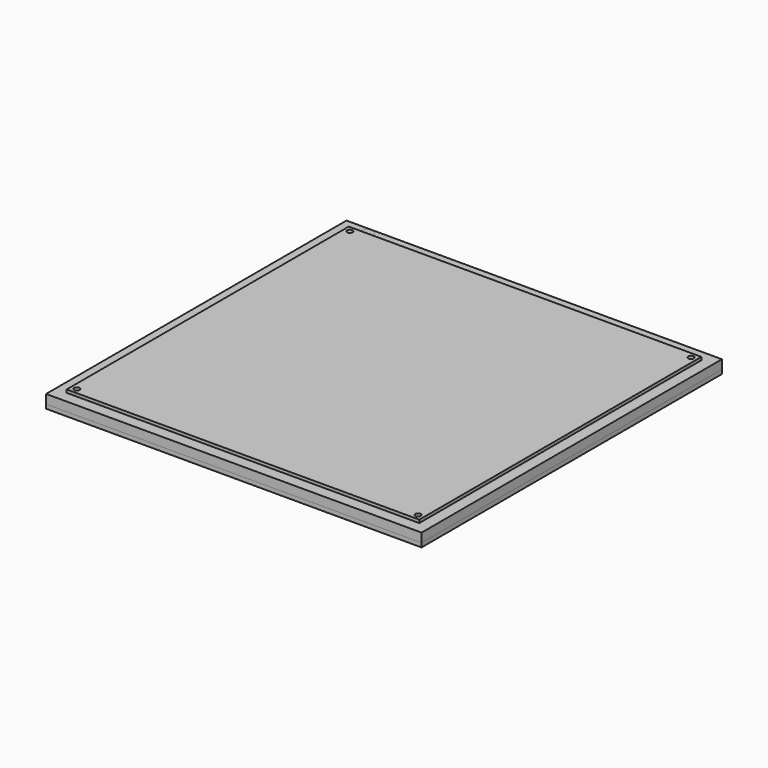
from build123d import *

# Parameters (mm, degrees)
F0_W           = 216
F0_H           = 216
F0_R           = 1.7
F1_DEPTH       = 1.86
F2_W           = 230
F2_H           = 230
F2_R           = 1.7
F3_DEPTH       = 8
F4_W           = 230
F4_H           = 230
F4_R           = 1.7
F5_DEPTH       = 5.5
F6_D           = 4.1656
F6_CSINK_D     = 7.9248
F6_CSINK_ANGLE = 82


with BuildPart() as f1:
    # F0 (on Top) → F1 (new body)
    with BuildSketch(Plane.XY):
        Rectangle(F0_W, F0_H)
        with Locations((-104.5, -104.5)):
            Circle(F0_R, mode=Mode.SUBTRACT)
        with Locations((104.5, -104.5)):
            Circle(F0_R, mode=Mode.SUBTRACT)
        with Locations((-104.5, 104.5)):
            Circle(F0_R, mode=Mode.SUBTRACT)
        with Locations((104.5, 104.5)):
            Circle(F0_R, mode=Mode.SUBTRACT)
    extrude(amount=F1_DEPTH)


with BuildPart() as f3:
    # F2 (on Top) → F3 (new body)
    with BuildSketch(Plane.XY):
        Rectangle(F2_W, F2_H)
        with Locations((-104.5, -104.5)):
            Circle(F2_R, mode=Mode.SUBTRACT)
        with Locations((104.5, -104.5)):
            Circle(F2_R, mode=Mode.SUBTRACT)
        with Locations((-104.5, 104.5)):
            Circle(F2_R, mode=Mode.SUBTRACT)
        with Locations((104.5, 104.5)):
            Circle(F2_R, mode=Mode.SUBTRACT)
    extrude(amount=-F3_DEPTH)


with BuildPart() as f5:
    # F4 (on face) → F5 (new body)
    with BuildSketch(Plane.XY):
        Rectangle(F4_W, F4_H)
        with Locations((-104.5, -104.5)):
            Circle(F4_R, mode=Mode.SUBTRACT)
        with Locations((104.5, -104.5)):
            Circle(F4_R, mode=Mode.SUBTRACT)
        with Locations((-104.5, 104.5)):
            Circle(F4_R, mode=Mode.SUBTRACT)
        with Locations((104.5, 104.5)):
            Circle(F4_R, mode=Mode.SUBTRACT)
    extrude(amount=-F5_DEPTH)

    # F6 (through all)
    with Locations(Plane.XY):
        with Locations((-99.4449332356, 110.5828)):
            CounterSinkHole(F6_D / 2, F6_CSINK_D / 2, counter_sink_angle=F6_CSINK_ANGLE)


solid = Compound([f1.part, f3.part, f5.part])
